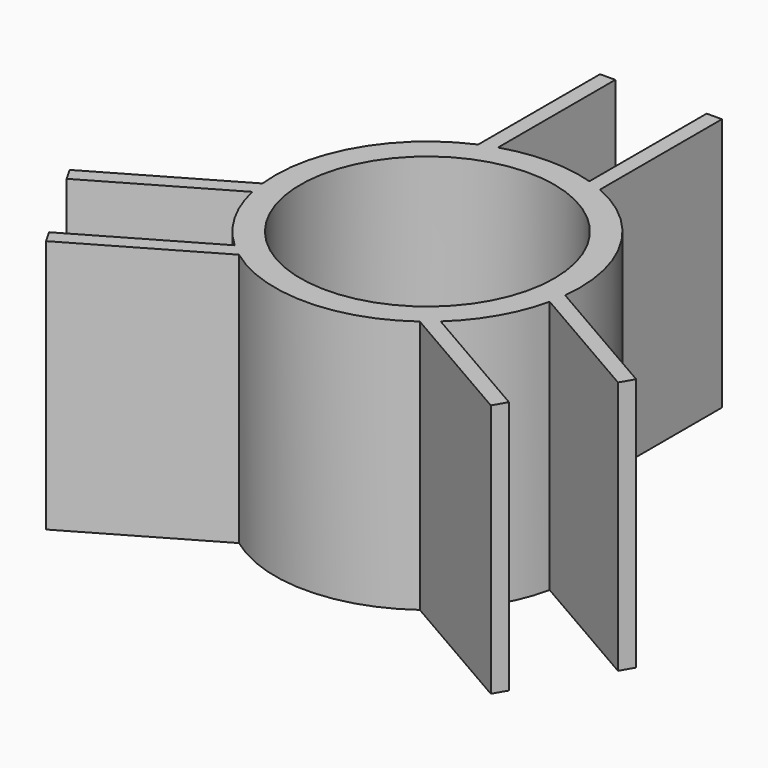
from build123d import *

# Parameters (mm, degrees)
F0_R     = 12.5
F1_DEPTH = 25
F3_DEPTH = 25


with BuildPart() as f1:
    # F0 (on Top) → F1 (new body)
    with BuildSketch(Plane.XY):
        with BuildLine():
            Line((-6, 28.747727), (-6, 13.747727))
            ThreePointArc((-6, 13.747727), (-12.990381, 7.5), (-14.905881, -1.677711))
            Line((-14.905881, -1.677711), (-27.896262, -9.177711))
            Line((-27.896262, -9.177711), (-24.896262, -14.373864))
            Line((-24.896262, -14.373864), (-21.896262, -19.570016))
            Line((-21.896262, -19.570016), (-8.905881, -12.070016))
            ThreePointArc((-8.905881, -12.070016), (0, -15), (8.905881, -12.070016))
            Line((8.905881, -12.070016), (21.896262, -19.570016))
            Line((21.896262, -19.570016), (24.896262, -14.373864))
            Line((24.896262, -14.373864), (27.896262, -9.177711))
            Line((27.896262, -9.177711), (14.905881, -1.677711))
            ThreePointArc((14.905881, -1.677711), (12.990381, 7.5), (6, 13.747727))
            Line((6, 13.747727), (6, 28.747727))
            Line((6, 28.747727), (0, 28.747727))
            Line((0, 28.747727), (-6, 28.747727))
        make_face()
        Circle(F0_R, mode=Mode.SUBTRACT)
    extrude(amount=F1_DEPTH)

    # F2 (on face) → F3 (cut)
    with BuildSketch(Plane.XY.offset(25)):
        with BuildLine():
            Line((4.5, 28.747727), (-4.5, 28.747727))
            Line((-4.5, 28.747727), (-4.5, 14.309088))
            ThreePointArc((-4.5, 14.309088), (0, 15), (4.5, 14.309088))
            Line((4.5, 14.309088), (4.5, 28.747727))
        make_face()
        with BuildLine():
            Line((27.146262, -10.476749), (14.642034, -3.25743))
            ThreePointArc((14.642034, -3.25743), (12.990381, -7.5), (10.142034, -11.051658))
            Line((10.142034, -11.051658), (22.646262, -18.270978))
            Line((22.646262, -18.270978), (27.146262, -10.476749))
        make_face()
        with BuildLine():
            Line((-22.646262, -18.270978), (-10.142034, -11.051658))
            ThreePointArc((-10.142034, -11.051658), (-12.990381, -7.5), (-14.642034, -3.25743))
            Line((-14.642034, -3.25743), (-27.146262, -10.476749))
            Line((-27.146262, -10.476749), (-22.646262, -18.270978))
        make_face()
    extrude(amount=-F3_DEPTH, mode=Mode.SUBTRACT)


solid = f1.part
